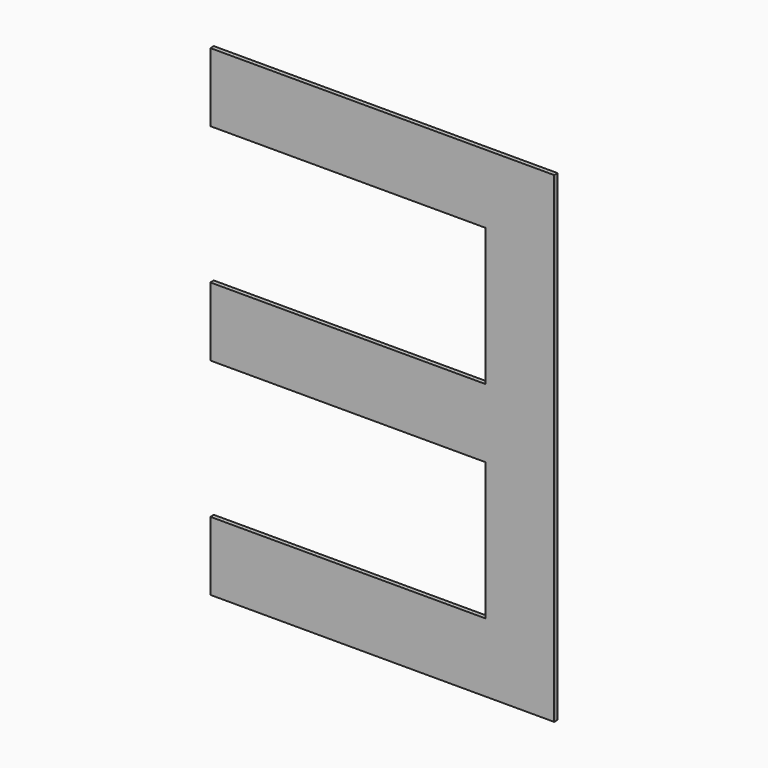
from build123d import *

# Parameters (mm, degrees)
F0_W     = 203.2
F0_H     = 50.8
F1_DEPTH = 3.175


with BuildPart() as f1:
    # F0 (on Front) → F1 (new body)
    with BuildSketch(Plane.XZ):
        Polygon((-50.8, 0), (0, 0), (0, 355.6), (-50.8, 355.6), (-50.8, 304.8), (-50.8, 203.2), (-50.8, 152.4), (-50.8, 50.8), align=None)
        with Locations((-152.4, 25.4)):
            Rectangle(F0_W, F0_H)
        with Locations((-152.4, 330.2)):
            Rectangle(F0_W, F0_H)
        with Locations((-152.4, 177.8)):
            Rectangle(F0_W, F0_H)
    extrude(amount=-F1_DEPTH)


solid = f1.part
